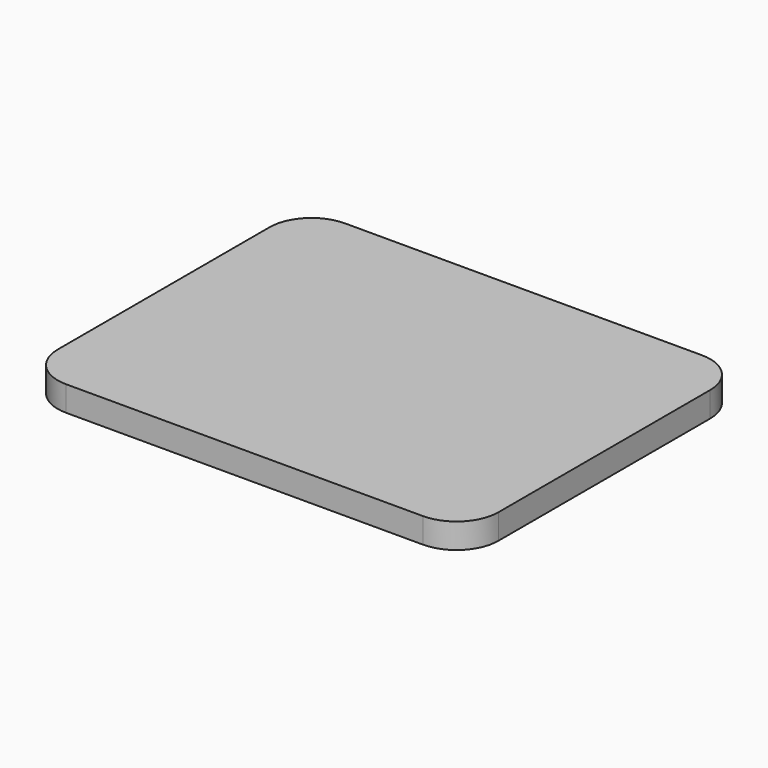
from build123d import *

# Parameters (mm, degrees)
PAD008_DEPTH    = 0.3
POCKET024_DEPTH = 0.001
SKETCH035_W     = 1.2
SKETCH035_H     = 0.51
SKETCH035_H_2   = 0.5
POCKET025_DEPTH = 0.001


with BuildPart() as part:
    # Sketch033 (on Face1 of Binder008) → Pad008 (new body)
    with BuildSketch(Plane(origin=(0, 0, -4.7), x_dir=(1, 0, 0), z_dir=(0, 0, -1))):
        with BuildLine():
            Line((-50.83, -4.37), (-50.83, -7.53))
            ThreePointArc((-50.83, -7.53), (-50.683553, -7.883553), (-50.33, -8.03))
            Line((-50.33, -8.03), (-46.07, -8.03))
            ThreePointArc((-46.07, -8.03), (-45.716447, -7.883553), (-45.57, -7.53))
            Line((-45.57, -7.53), (-45.57, -4.37))
            ThreePointArc((-45.57, -4.37), (-45.716447, -4.016447), (-46.07, -3.87))
            Line((-46.07, -3.87), (-50.33, -3.87))
            ThreePointArc((-50.33, -3.87), (-50.683553, -4.016447), (-50.83, -4.37))
        make_face()
    extrude(amount=PAD008_DEPTH)

    # Sketch034 (on Face10 of Pad008) → Pocket024 (cut)
    with BuildSketch(Plane(origin=(0, 0, -5), x_dir=(1, 0, 0), z_dir=(0, 0, -1))):
        with BuildLine():
            Line((-48.23, -4.87), (-48.23, -7.03))
            ThreePointArc((-48.43, -7.23), (-48.288579, -7.171421), (-48.23, -7.03))
            Line((-48.43, -7.23), (-50.83, -7.23))
            Line((-50.83, -7.23), (-50.83, -7.53))
            Line((-50.83, -7.53), (-48.28, -7.53))
            ThreePointArc((-48.28, -7.53), (-48.032513, -7.427487), (-47.93, -7.18))
            Line((-47.93, -7.18), (-47.93, -4.72))
            ThreePointArc((-47.93, -4.72), (-48.032513, -4.472513), (-48.28, -4.37))
            Line((-48.28, -4.37), (-50.83, -4.37))
            Line((-50.83, -4.67), (-50.83, -4.37))
            Line((-48.43, -4.67), (-50.83, -4.67))
            ThreePointArc((-48.23, -4.87), (-48.288579, -4.728579), (-48.43, -4.67))
        make_face()
        with BuildLine():
            Line((-47.57, -4.72), (-47.57, -7.18))
            ThreePointArc((-47.57, -7.18), (-47.467487, -7.427487), (-47.22, -7.53))
            Line((-47.22, -7.53), (-46.22, -7.53))
            ThreePointArc((-46.22, -7.53), (-45.972513, -7.427487), (-45.87, -7.18))
            Line((-45.87, -7.18), (-45.87, -4.72))
            ThreePointArc((-45.87, -4.72), (-45.972513, -4.472513), (-46.22, -4.37))
            Line((-46.22, -4.37), (-47.22, -4.37))
            ThreePointArc((-47.22, -4.37), (-47.467487, -4.472513), (-47.57, -4.72))
        make_face()
    extrude(amount=-POCKET024_DEPTH, mode=Mode.SUBTRACT)

    # Sketch035 (on Face31 of Pocket024) → Pocket025 (cut)
    with BuildSketch(Plane(origin=(0, 0, -4.999), x_dir=(1, 0, 0), z_dir=(0, 0, -1))):
        with BuildLine():
            Line((-47.32, -6.83), (-47.32, -7.08))
            ThreePointArc((-47.32, -7.08), (-47.261421, -7.221421), (-47.12, -7.28))
            Line((-47.12, -7.28), (-46.32, -7.28))
            ThreePointArc((-46.32, -7.28), (-46.178579, -7.221421), (-46.12, -7.08))
            Line((-46.12, -7.08), (-46.12, -6.83))
            Line((-46.12, -6.83), (-47.32, -6.83))
        make_face()
        with Locations((-46.72, -6.325)):
            Rectangle(SKETCH035_W, SKETCH035_H)
        with Locations((-46.72, -5.57)):
            Rectangle(SKETCH035_W, SKETCH035_H_2)
        with BuildLine():
            Line((-47.32, -4.82), (-47.32, -5.07))
            Line((-47.32, -5.07), (-46.12, -5.07))
            Line((-46.12, -5.07), (-46.12, -4.82))
            ThreePointArc((-46.12, -4.82), (-46.178579, -4.678579), (-46.32, -4.62))
            Line((-46.32, -4.62), (-47.12, -4.62))
            ThreePointArc((-47.12, -4.62), (-47.261421, -4.678579), (-47.32, -4.82))
        make_face()
    extrude(amount=-POCKET025_DEPTH, mode=Mode.SUBTRACT)


solid = part.part
